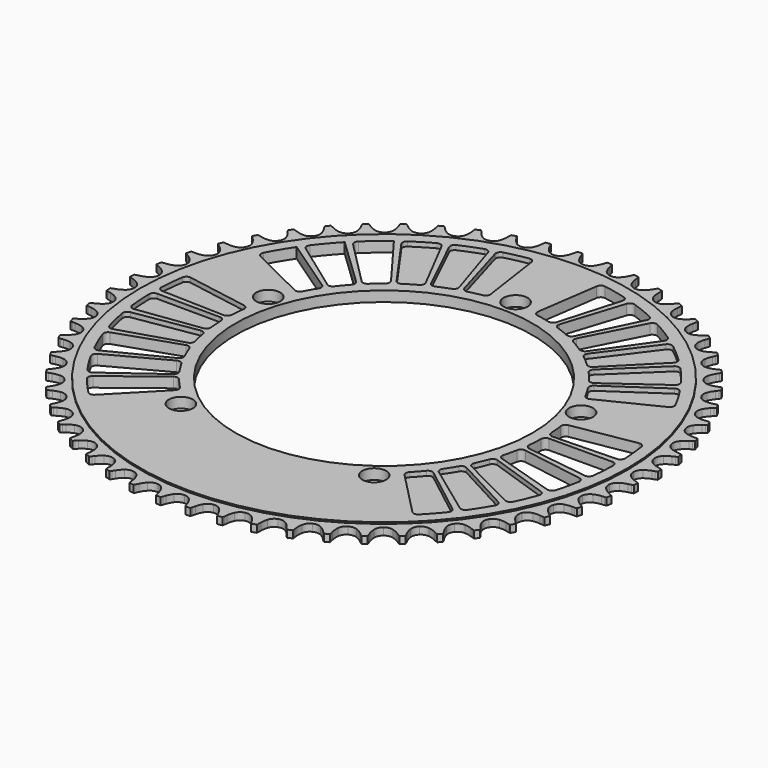
from build123d import *

# Parameters (mm, degrees)
F0_R     = 106.676444
F0_R_2   = 5.25
F0_R_3   = 64.999997
F1_DEPTH = 2.25
F2_DEPTH = 1.58
F4_DEPTH = 4.5
F5_DEPTH = 2
F6_R     = 2


with BuildPart() as f1:
    # F0 (on Top) → F1 (new body, symmetric)
    with BuildSketch(Plane.XY):
        Circle(F0_R)
        with Locations((-42.320538, -58.249224)):
            Circle(F0_R_2, mode=Mode.SUBTRACT)
        with Locations((42.320538, -58.249224)):
            Circle(F0_R_2, mode=Mode.SUBTRACT)
        with Locations((-68.476069, 22.249224)):
            Circle(F0_R_2, mode=Mode.SUBTRACT)
        Circle(F0_R_3, mode=Mode.SUBTRACT)
        with Locations((68.476069, 22.249224)):
            Circle(F0_R_2, mode=Mode.SUBTRACT)
        with Locations((0, 72)):
            Circle(F0_R_2, mode=Mode.SUBTRACT)
    extrude(amount=F1_DEPTH, both=True)

    # F0 (on Top) → F2 (join, symmetric)
    with BuildSketch(Plane.XY):
        with BuildLine():
            ThreePointArc((0, 109.17581), (-1.820626, 109.612304), (-3.24541, 110.826881))
            ThreePointArc((-3.24541, 110.826881), (-4.064402, 112.130041), (-4.681956, 113.539863))
            Line((-4.681956, 113.539863), (-5.068074, 114.656705))
            ThreePointArc((-5.068074, 114.656705), (-5.236599, 115.092025), (-5.436425, 115.513894))
            ThreePointArc((-5.436425, 115.513894), (-6.484085, 115.459824), (-7.53121, 115.396253))
            ThreePointArc((-7.53121, 115.396253), (-7.682546, 114.954664), (-7.801271, 114.503212))
            Line((-7.801271, 114.503212), (-8.059914, 113.350161))
            ThreePointArc((-8.059914, 113.350161), (-8.515736, 111.880059), (-9.183671, 110.493396))
            ThreePointArc((-9.183671, 110.493396), (-10.463506, 109.12693), (-12.223812, 108.489336))
            ThreePointArc((-12.223812, 108.489336), (-14.081863, 108.719239), (-15.633677, 109.766654))
            ThreePointArc((-15.633677, 109.766654), (-16.593427, 110.969922), (-17.364948, 112.301736))
            Line((-17.364948, 112.301736), (-17.873685, 113.368324))
            ThreePointArc((-17.873685, 113.368324), (-18.08989, 113.782037), (-18.335695, 114.17888))
            ThreePointArc((-18.335695, 114.17888), (-19.370713, 114.00785), (-20.404137, 113.827437))
            ThreePointArc((-20.404137, 113.827437), (-20.505079, 113.37168), (-20.57251, 112.909775))
            Line((-20.57251, 112.909775), (-20.700427, 111.735015))
            ThreePointArc((-20.700427, 111.735015), (-20.988783, 110.223121), (-21.497261, 108.770392))
            ThreePointArc((-21.497261, 108.770392), (-22.616053, 107.269222), (-24.293903, 106.438545))
            ThreePointArc((-24.293903, 106.438545), (-26.166011, 106.458967), (-27.825342, 107.326048))
            ThreePointArc((-27.825342, 107.326048), (-28.91378, 108.414292), (-29.829566, 109.651349))
            Line((-29.829566, 109.651349), (-30.454524, 110.65427))
            ThreePointArc((-30.454524, 110.65427), (-30.715691, 111.041175), (-31.004382, 111.408001))
            ThreePointArc((-31.004382, 111.408001), (-32.013743, 111.122161), (-33.020469, 110.827176))
            ThreePointArc((-33.020469, 110.827176), (-33.069748, 110.362983), (-33.085038, 109.896432))
            Line((-33.085038, 109.896432), (-33.080619, 108.714736))
            ThreePointArc((-33.080619, 108.714736), (-33.197884, 107.180063), (-33.54051, 105.679537))
            ThreePointArc((-33.54051, 105.679537), (-34.48419, 104.062541), (-36.058484, 103.049227))
            ThreePointArc((-36.058484, 103.049227), (-37.921108, 102.859912), (-39.667086, 103.535755))
            ThreePointArc((-39.667086, 103.535755), (-40.870526, 104.49529), (-41.91906, 105.622032))
            Line((-41.91906, 105.622032), (-42.65238, 106.548674))
            ThreePointArc((-42.65238, 106.548674), (-42.955224, 106.903905), (-43.283172, 107.236101))
            ThreePointArc((-43.283172, 107.236101), (-44.254182, 106.839046), (-45.22155, 106.433198))
            ThreePointArc((-45.22155, 106.433198), (-45.218546, 105.966406), (-45.181503, 105.501077))
            Line((-45.181503, 105.501077), (-45.044804, 104.327307))
            ThreePointArc((-45.044804, 104.327307), (-44.989502, 102.789154), (-45.161969, 101.2597))
            ThreePointArc((-45.161969, 101.2597), (-45.918669, 99.547213), (-47.369609, 98.364006))
            ThreePointArc((-47.369609, 98.364006), (-49.199324, 97.967333), (-51.009995, 98.443439))
            ThreePointArc((-51.009995, 98.443439), (-52.313301, 99.262198), (-53.481397, 100.264457))
            Line((-53.481397, 100.264457), (-54.313857, 101.103167))
            ThreePointArc((-54.313857, 101.103167), (-54.65457, 101.422256), (-55.01765, 101.715645))
            ThreePointArc((-55.01765, 101.715645), (-55.938099, 101.212368), (-56.853944, 100.700762))
            ThreePointArc((-56.853944, 100.700762), (-56.798694, 100.237241), (-56.709784, 99.778985))
            Line((-56.709784, 99.778985), (-56.442524, 98.627901))
            ThreePointArc((-56.442524, 98.627901), (-56.215351, 97.105611), (-56.215489, 95.566464))
            ThreePointArc((-56.215489, 95.566464), (-56.775693, 93.780022), (-58.085033, 92.441801))
            ThreePointArc((-58.085033, 92.441801), (-59.85883, 91.842759), (-61.711423, 92.11314))
            ThreePointArc((-61.711423, 92.11314), (-63.098206, 92.780827), (-64.371175, 93.645999))
            Line((-64.371175, 93.645999), (-65.292306, 94.386229))
            ThreePointArc((-65.292306, 94.386229), (-65.666604, 94.665164), (-66.060249, 94.916056))
            ThreePointArc((-66.060249, 94.916056), (-66.918561, 94.312886), (-67.771366, 93.701954))
            ThreePointArc((-67.771366, 93.701954), (-67.664566, 93.247534), (-67.524906, 92.802114))
            Line((-67.524906, 92.802114), (-67.130446, 91.688192))
            ThreePointArc((-67.130446, 91.688192), (-66.73426, 90.200909), (-66.562067, 88.671425))
            ThreePointArc((-66.562067, 88.671425), (-66.918731, 86.833492), (-68.070004, 85.357086))
            ThreePointArc((-68.070004, 85.357086), (-69.765576, 84.563208), (-71.636794, 84.624465))
            ThreePointArc((-71.636794, 84.624465), (-73.089614, 85.132683), (-74.451448, 85.849888))
            Line((-74.451448, 85.849888), (-75.449666, 86.482329))
            ThreePointArc((-75.449666, 86.482329), (-75.852841, 86.717603), (-76.272103, 86.922843))
            ThreePointArc((-76.272103, 86.922843), (-77.057484, 86.227365), (-77.836524, 85.524791))
            ThreePointArc((-77.836524, 85.524791), (-77.679517, 85.085186), (-77.490864, 84.658203))
            Line((-77.490864, 84.658203), (-76.974164, 83.59545))
            ThreePointArc((-76.974164, 83.59545), (-76.413946, 82.161878), (-76.071588, 80.66129))
            ThreePointArc((-76.071588, 80.66129), (-76.220226, 78.79498), (-77.198956, 77.198956))
            ThreePointArc((-77.198956, 77.198956), (-78.79498, 76.220226), (-80.66129, 76.071588))
            ThreePointArc((-80.66129, 76.071588), (-82.161878, 76.413946), (-83.59545, 76.974164))
            Line((-83.59545, 76.974164), (-84.658203, 77.490864))
            ThreePointArc((-84.658203, 77.490864), (-85.085186, 77.679517), (-85.524791, 77.836524))
            ThreePointArc((-85.524791, 77.836524), (-86.227365, 77.057484), (-86.922843, 76.272103))
            ThreePointArc((-86.922843, 76.272103), (-86.717603, 75.852841), (-86.482329, 75.449666))
            Line((-86.482329, 75.449666), (-85.849888, 74.451448))
            ThreePointArc((-85.849888, 74.451448), (-85.132683, 73.089614), (-84.624465, 71.636794))
            ThreePointArc((-84.624465, 71.636794), (-84.563208, 69.765576), (-85.357086, 68.070004))
            ThreePointArc((-85.357086, 68.070004), (-86.833492, 66.918731), (-88.671425, 66.562067))
            ThreePointArc((-88.671425, 66.562067), (-90.200909, 66.73426), (-91.688192, 67.130446))
            Line((-91.688192, 67.130446), (-92.802114, 67.524906))
            ThreePointArc((-92.802114, 67.524906), (-93.247534, 67.664566), (-93.701954, 67.771366))
            ThreePointArc((-93.701954, 67.771366), (-94.312886, 66.918561), (-94.916056, 66.060249))
            ThreePointArc((-94.916056, 66.060249), (-94.665164, 65.666604), (-94.386229, 65.292306))
            Line((-94.386229, 65.292306), (-93.645999, 64.371175))
            ThreePointArc((-93.645999, 64.371175), (-92.780827, 63.098206), (-92.11314, 61.711423))
            ThreePointArc((-92.11314, 61.711423), (-91.842759, 59.85883), (-92.441801, 58.085033))
            ThreePointArc((-92.441801, 58.085033), (-93.780022, 56.775693), (-95.566464, 56.215489))
            ThreePointArc((-95.566464, 56.215489), (-97.105611, 56.215351), (-98.627901, 56.442524))
            Line((-98.627901, 56.442524), (-99.778985, 56.709784))
            ThreePointArc((-99.778985, 56.709784), (-100.237241, 56.798694), (-100.700762, 56.853944))
            ThreePointArc((-100.700762, 56.853944), (-101.212368, 55.938099), (-101.715645, 55.01765))
            ThreePointArc((-101.715645, 55.01765), (-101.422256, 54.65457), (-101.103167, 54.313857))
            Line((-101.103167, 54.313857), (-100.264457, 53.481397))
            ThreePointArc((-100.264457, 53.481397), (-99.262198, 52.313301), (-98.443439, 51.009995))
            ThreePointArc((-98.443439, 51.009995), (-97.967333, 49.199324), (-98.364006, 47.369609))
            ThreePointArc((-98.364006, 47.369609), (-99.547213, 45.918669), (-101.2597, 45.161969))
            ThreePointArc((-101.2597, 45.161969), (-102.789154, 44.989502), (-104.327307, 45.044804))
            Line((-104.327307, 45.044804), (-105.501077, 45.181503))
            ThreePointArc((-105.501077, 45.181503), (-105.966406, 45.218546), (-106.433198, 45.22155))
            ThreePointArc((-106.433198, 45.22155), (-106.839046, 44.254182), (-107.236101, 43.283172))
            ThreePointArc((-107.236101, 43.283172), (-106.903905, 42.955224), (-106.548674, 42.65238))
            Line((-106.548674, 42.65238), (-105.622032, 41.91906))
            ThreePointArc((-105.622032, 41.91906), (-104.49529, 40.870526), (-103.535755, 39.667086))
            ThreePointArc((-103.535755, 39.667086), (-102.859912, 37.921108), (-103.049227, 36.058484))
            ThreePointArc((-103.049227, 36.058484), (-104.062541, 34.48419), (-105.679537, 33.54051))
            ThreePointArc((-105.679537, 33.54051), (-107.180063, 33.197884), (-108.714736, 33.080619))
            Line((-108.714736, 33.080619), (-109.896432, 33.085038))
            ThreePointArc((-109.896432, 33.085038), (-110.362983, 33.069748), (-110.827176, 33.020469))
            ThreePointArc((-110.827176, 33.020469), (-111.122161, 32.013743), (-111.408001, 31.004382))
            ThreePointArc((-111.408001, 31.004382), (-111.041175, 30.715691), (-110.65427, 30.454524))
            Line((-110.65427, 30.454524), (-109.651349, 29.829566))
            ThreePointArc((-109.651349, 29.829566), (-108.414292, 28.91378), (-107.326048, 27.825342))
            ThreePointArc((-107.326048, 27.825342), (-106.458967, 26.166011), (-106.438545, 24.293903))
            ThreePointArc((-106.438545, 24.293903), (-107.269222, 22.616053), (-108.770392, 21.497261))
            ThreePointArc((-108.770392, 21.497261), (-110.223121, 20.988783), (-111.735015, 20.700427))
            Line((-111.735015, 20.700427), (-112.909775, 20.57251))
            ThreePointArc((-112.909775, 20.57251), (-113.37168, 20.505079), (-113.827437, 20.404137))
            ThreePointArc((-113.827437, 20.404137), (-114.00785, 19.370713), (-114.17888, 18.335695))
            ThreePointArc((-114.17888, 18.335695), (-113.782037, 18.08989), (-113.368324, 17.873685))
            Line((-113.368324, 17.873685), (-112.301736, 17.364948))
            ThreePointArc((-112.301736, 17.364948), (-110.969922, 16.593427), (-109.766654, 15.633677))
            ThreePointArc((-109.766654, 15.633677), (-108.719239, 14.081863), (-108.489336, 12.223812))
            ThreePointArc((-108.489336, 12.223812), (-109.12693, 10.463506), (-110.493396, 9.183671))
            ThreePointArc((-110.493396, 9.183671), (-111.880059, 8.515736), (-113.350161, 8.059914))
            Line((-113.350161, 8.059914), (-114.503212, 7.801271))
            ThreePointArc((-114.503212, 7.801271), (-114.954664, 7.682546), (-115.396253, 7.53121))
            ThreePointArc((-115.396253, 7.53121), (-115.459824, 6.484085), (-115.513894, 5.436425))
            ThreePointArc((-115.513894, 5.436425), (-115.092025, 5.236599), (-114.656705, 5.068074))
            Line((-114.656705, 5.068074), (-113.539863, 4.681956))
            ThreePointArc((-113.539863, 4.681956), (-112.130041, 4.064402), (-110.826881, 3.24541))
            ThreePointArc((-110.826881, 3.24541), (-109.612304, 1.820626), (-109.17581, 0))
            ThreePointArc((-109.17581, 0), (-109.612304, -1.820626), (-110.826881, -3.24541))
            ThreePointArc((-110.826881, -3.24541), (-112.130041, -4.064402), (-113.539863, -4.681956))
            Line((-113.539863, -4.681956), (-114.656705, -5.068074))
            ThreePointArc((-114.656705, -5.068074), (-115.092025, -5.236599), (-115.513894, -5.436425))
            ThreePointArc((-115.513894, -5.436425), (-115.459824, -6.484085), (-115.396253, -7.53121))
            ThreePointArc((-115.396253, -7.53121), (-114.954664, -7.682546), (-114.503212, -7.801271))
            Line((-114.503212, -7.801271), (-113.350161, -8.059914))
            ThreePointArc((-113.350161, -8.059914), (-111.880059, -8.515736), (-110.493396, -9.183671))
            ThreePointArc((-110.493396, -9.183671), (-109.12693, -10.463506), (-108.489336, -12.223812))
            ThreePointArc((-108.489336, -12.223812), (-108.719239, -14.081863), (-109.766654, -15.633677))
            ThreePointArc((-109.766654, -15.633677), (-110.969922, -16.593427), (-112.301736, -17.364948))
            Line((-112.301736, -17.364948), (-113.368324, -17.873685))
            ThreePointArc((-113.368324, -17.873685), (-113.782037, -18.08989), (-114.17888, -18.335695))
            ThreePointArc((-114.17888, -18.335695), (-114.00785, -19.370713), (-113.827437, -20.404137))
            ThreePointArc((-113.827437, -20.404137), (-113.37168, -20.505079), (-112.909775, -20.57251))
            Line((-112.909775, -20.57251), (-111.735015, -20.700427))
            ThreePointArc((-111.735015, -20.700427), (-110.223121, -20.988783), (-108.770392, -21.497261))
            ThreePointArc((-108.770392, -21.497261), (-107.269222, -22.616053), (-106.438545, -24.293903))
            ThreePointArc((-106.438545, -24.293903), (-106.458967, -26.166011), (-107.326048, -27.825342))
            ThreePointArc((-107.326048, -27.825342), (-108.414292, -28.91378), (-109.651349, -29.829566))
            Line((-109.651349, -29.829566), (-110.65427, -30.454524))
            ThreePointArc((-110.65427, -30.454524), (-111.041175, -30.715691), (-111.408001, -31.004382))
            ThreePointArc((-111.408001, -31.004382), (-111.122161, -32.013743), (-110.827176, -33.020469))
            ThreePointArc((-110.827176, -33.020469), (-110.362983, -33.069748), (-109.896432, -33.085038))
            Line((-109.896432, -33.085038), (-108.714736, -33.080619))
            ThreePointArc((-108.714736, -33.080619), (-107.180063, -33.197884), (-105.679537, -33.54051))
            ThreePointArc((-105.679537, -33.54051), (-104.062541, -34.48419), (-103.049227, -36.058484))
            ThreePointArc((-103.049227, -36.058484), (-102.859912, -37.921108), (-103.535755, -39.667086))
            ThreePointArc((-103.535755, -39.667086), (-104.49529, -40.870526), (-105.622032, -41.91906))
            Line((-105.622032, -41.91906), (-106.548674, -42.65238))
            ThreePointArc((-106.548674, -42.65238), (-106.903905, -42.955224), (-107.236101, -43.283172))
            ThreePointArc((-107.236101, -43.283172), (-106.839046, -44.254182), (-106.433198, -45.22155))
            ThreePointArc((-106.433198, -45.22155), (-105.966406, -45.218546), (-105.501077, -45.181503))
            Line((-105.501077, -45.181503), (-104.327307, -45.044804))
            ThreePointArc((-104.327307, -45.044804), (-102.789154, -44.989502), (-101.2597, -45.161969))
            ThreePointArc((-101.2597, -45.161969), (-99.547213, -45.918669), (-98.364006, -47.369609))
            ThreePointArc((-98.364006, -47.369609), (-97.967333, -49.199324), (-98.443439, -51.009995))
            ThreePointArc((-98.443439, -51.009995), (-99.262198, -52.313301), (-100.264457, -53.481397))
            Line((-100.264457, -53.481397), (-101.103167, -54.313857))
            ThreePointArc((-101.103167, -54.313857), (-101.422256, -54.65457), (-101.715645, -55.01765))
            ThreePointArc((-101.715645, -55.01765), (-101.212368, -55.938099), (-100.700762, -56.853944))
            ThreePointArc((-100.700762, -56.853944), (-100.237241, -56.798694), (-99.778985, -56.709784))
            Line((-99.778985, -56.709784), (-98.627901, -56.442524))
            ThreePointArc((-98.627901, -56.442524), (-97.105611, -56.215351), (-95.566464, -56.215489))
            ThreePointArc((-95.566464, -56.215489), (-93.780022, -56.775693), (-92.441801, -58.085033))
            ThreePointArc((-92.441801, -58.085033), (-91.842759, -59.85883), (-92.11314, -61.711423))
            ThreePointArc((-92.11314, -61.711423), (-92.780827, -63.098206), (-93.645999, -64.371175))
            Line((-93.645999, -64.371175), (-94.386229, -65.292306))
            ThreePointArc((-94.386229, -65.292306), (-94.665164, -65.666604), (-94.916056, -66.060249))
            ThreePointArc((-94.916056, -66.060249), (-94.312886, -66.918561), (-93.701954, -67.771366))
            ThreePointArc((-93.701954, -67.771366), (-93.247534, -67.664566), (-92.802114, -67.524906))
            Line((-92.802114, -67.524906), (-91.688192, -67.130446))
            ThreePointArc((-91.688192, -67.130446), (-90.200909, -66.73426), (-88.671425, -66.562067))
            ThreePointArc((-88.671425, -66.562067), (-86.833492, -66.918731), (-85.357086, -68.070004))
            ThreePointArc((-85.357086, -68.070004), (-84.563208, -69.765576), (-84.624465, -71.636794))
            ThreePointArc((-84.624465, -71.636794), (-85.132683, -73.089614), (-85.849888, -74.451448))
            Line((-85.849888, -74.451448), (-86.482329, -75.449666))
            ThreePointArc((-86.482329, -75.449666), (-86.717603, -75.852841), (-86.922843, -76.272103))
            ThreePointArc((-86.922843, -76.272103), (-86.227365, -77.057484), (-85.524791, -77.836524))
            ThreePointArc((-85.524791, -77.836524), (-85.085186, -77.679517), (-84.658203, -77.490864))
            Line((-84.658203, -77.490864), (-83.59545, -76.974164))
            ThreePointArc((-83.59545, -76.974164), (-82.161878, -76.413946), (-80.66129, -76.071588))
            ThreePointArc((-80.66129, -76.071588), (-78.79498, -76.220226), (-77.198956, -77.198956))
            ThreePointArc((-77.198956, -77.198956), (-76.220226, -78.79498), (-76.071588, -80.66129))
            ThreePointArc((-76.071588, -80.66129), (-76.413946, -82.161878), (-76.974164, -83.59545))
            Line((-76.974164, -83.59545), (-77.490864, -84.658203))
            ThreePointArc((-77.490864, -84.658203), (-77.679517, -85.085186), (-77.836524, -85.524791))
            ThreePointArc((-77.836524, -85.524791), (-77.057484, -86.227365), (-76.272103, -86.922843))
            ThreePointArc((-76.272103, -86.922843), (-75.852841, -86.717603), (-75.449666, -86.482329))
            Line((-75.449666, -86.482329), (-74.451448, -85.849888))
            ThreePointArc((-74.451448, -85.849888), (-73.089614, -85.132683), (-71.636794, -84.624465))
            ThreePointArc((-71.636794, -84.624465), (-69.765576, -84.563208), (-68.070004, -85.357086))
            ThreePointArc((-68.070004, -85.357086), (-66.918731, -86.833492), (-66.562067, -88.671425))
            ThreePointArc((-66.562067, -88.671425), (-66.73426, -90.200909), (-67.130446, -91.688192))
            Line((-67.130446, -91.688192), (-67.524906, -92.802114))
            ThreePointArc((-67.524906, -92.802114), (-67.664566, -93.247534), (-67.771366, -93.701954))
            ThreePointArc((-67.771366, -93.701954), (-66.918561, -94.312886), (-66.060249, -94.916056))
            ThreePointArc((-66.060249, -94.916056), (-65.666604, -94.665164), (-65.292306, -94.386229))
            Line((-65.292306, -94.386229), (-64.371175, -93.645999))
            ThreePointArc((-64.371175, -93.645999), (-63.098206, -92.780827), (-61.711423, -92.11314))
            ThreePointArc((-61.711423, -92.11314), (-59.85883, -91.842759), (-58.085033, -92.441801))
            ThreePointArc((-58.085033, -92.441801), (-56.775693, -93.780022), (-56.215489, -95.566464))
            ThreePointArc((-56.215489, -95.566464), (-56.215351, -97.105611), (-56.442524, -98.627901))
            Line((-56.442524, -98.627901), (-56.709784, -99.778985))
            ThreePointArc((-56.709784, -99.778985), (-56.798694, -100.237241), (-56.853944, -100.700762))
            ThreePointArc((-56.853944, -100.700762), (-55.938099, -101.212368), (-55.01765, -101.715645))
            ThreePointArc((-55.01765, -101.715645), (-54.65457, -101.422256), (-54.313857, -101.103167))
            Line((-54.313857, -101.103167), (-53.481397, -100.264457))
            ThreePointArc((-53.481397, -100.264457), (-52.313301, -99.262198), (-51.009995, -98.443439))
            ThreePointArc((-51.009995, -98.443439), (-49.199324, -97.967333), (-47.369609, -98.364006))
            ThreePointArc((-47.369609, -98.364006), (-45.918669, -99.547213), (-45.161969, -101.2597))
            ThreePointArc((-45.161969, -101.2597), (-44.989502, -102.789154), (-45.044804, -104.327307))
            Line((-45.044804, -104.327307), (-45.181503, -105.501077))
            ThreePointArc((-45.181503, -105.501077), (-45.218546, -105.966406), (-45.22155, -106.433198))
            ThreePointArc((-45.22155, -106.433198), (-44.254182, -106.839046), (-43.283172, -107.236101))
            ThreePointArc((-43.283172, -107.236101), (-42.955224, -106.903905), (-42.65238, -106.548674))
            Line((-42.65238, -106.548674), (-41.91906, -105.622032))
            ThreePointArc((-41.91906, -105.622032), (-40.870526, -104.49529), (-39.667086, -103.535755))
            ThreePointArc((-39.667086, -103.535755), (-37.921108, -102.859912), (-36.058484, -103.049227))
            ThreePointArc((-36.058484, -103.049227), (-34.48419, -104.062541), (-33.54051, -105.679537))
            ThreePointArc((-33.54051, -105.679537), (-33.197884, -107.180063), (-33.080619, -108.714736))
            Line((-33.080619, -108.714736), (-33.085038, -109.896432))
            ThreePointArc((-33.085038, -109.896432), (-33.069748, -110.362983), (-33.020469, -110.827176))
            ThreePointArc((-33.020469, -110.827176), (-32.013743, -111.122161), (-31.004382, -111.408001))
            ThreePointArc((-31.004382, -111.408001), (-30.715691, -111.041175), (-30.454524, -110.65427))
            Line((-30.454524, -110.65427), (-29.829566, -109.651349))
            ThreePointArc((-29.829566, -109.651349), (-28.91378, -108.414292), (-27.825342, -107.326048))
            ThreePointArc((-27.825342, -107.326048), (-26.166011, -106.458967), (-24.293903, -106.438545))
            ThreePointArc((-24.293903, -106.438545), (-22.616053, -107.269222), (-21.497261, -108.770392))
            ThreePointArc((-21.497261, -108.770392), (-20.988783, -110.223121), (-20.700427, -111.735015))
            Line((-20.700427, -111.735015), (-20.57251, -112.909775))
            ThreePointArc((-20.57251, -112.909775), (-20.505079, -113.37168), (-20.404137, -113.827437))
            ThreePointArc((-20.404137, -113.827437), (-19.370713, -114.00785), (-18.335695, -114.17888))
            ThreePointArc((-18.335695, -114.17888), (-18.08989, -113.782037), (-17.873685, -113.368324))
            Line((-17.873685, -113.368324), (-17.364948, -112.301736))
            ThreePointArc((-17.364948, -112.301736), (-16.593427, -110.969922), (-15.633677, -109.766654))
            ThreePointArc((-15.633677, -109.766654), (-14.081863, -108.719239), (-12.223812, -108.489336))
            ThreePointArc((-12.223812, -108.489336), (-10.463506, -109.12693), (-9.183671, -110.493396))
            ThreePointArc((-9.183671, -110.493396), (-8.515736, -111.880059), (-8.059914, -113.350161))
            Line((-8.059914, -113.350161), (-7.801271, -114.503212))
            ThreePointArc((-7.801271, -114.503212), (-7.682546, -114.954664), (-7.53121, -115.396253))
            ThreePointArc((-7.53121, -115.396253), (-6.484085, -115.459824), (-5.436425, -115.513894))
            ThreePointArc((-5.436425, -115.513894), (-5.236599, -115.092025), (-5.068074, -114.656705))
            Line((-5.068074, -114.656705), (-4.681956, -113.539863))
            ThreePointArc((-4.681956, -113.539863), (-4.064402, -112.130041), (-3.24541, -110.826881))
            ThreePointArc((-3.24541, -110.826881), (-1.820626, -109.612304), (0, -109.17581))
            ThreePointArc((0, -109.17581), (1.820626, -109.612304), (3.24541, -110.826881))
            ThreePointArc((3.24541, -110.826881), (4.064402, -112.130041), (4.681956, -113.539863))
            Line((4.681956, -113.539863), (5.068074, -114.656705))
            ThreePointArc((5.068074, -114.656705), (5.236599, -115.092025), (5.436425, -115.513894))
            ThreePointArc((5.436425, -115.513894), (6.484085, -115.459824), (7.53121, -115.396253))
            ThreePointArc((7.53121, -115.396253), (7.682546, -114.954664), (7.801271, -114.503212))
            Line((7.801271, -114.503212), (8.059914, -113.350161))
            ThreePointArc((8.059914, -113.350161), (8.515736, -111.880059), (9.183671, -110.493396))
            ThreePointArc((9.183671, -110.493396), (10.463506, -109.12693), (12.223812, -108.489336))
            ThreePointArc((12.223812, -108.489336), (14.081863, -108.719239), (15.633677, -109.766654))
            ThreePointArc((15.633677, -109.766654), (16.593427, -110.969922), (17.364948, -112.301736))
            Line((17.364948, -112.301736), (17.873685, -113.368324))
            ThreePointArc((17.873685, -113.368324), (18.08989, -113.782037), (18.335695, -114.17888))
            ThreePointArc((18.335695, -114.17888), (19.370713, -114.00785), (20.404137, -113.827437))
            ThreePointArc((20.404137, -113.827437), (20.505079, -113.37168), (20.57251, -112.909775))
            Line((20.57251, -112.909775), (20.700427, -111.735015))
            ThreePointArc((20.700427, -111.735015), (20.988783, -110.223121), (21.497261, -108.770392))
            ThreePointArc((21.497261, -108.770392), (22.616053, -107.269222), (24.293903, -106.438545))
            ThreePointArc((24.293903, -106.438545), (26.166011, -106.458967), (27.825342, -107.326048))
            ThreePointArc((27.825342, -107.326048), (28.91378, -108.414292), (29.829566, -109.651349))
            Line((29.829566, -109.651349), (30.454524, -110.65427))
            ThreePointArc((30.454524, -110.65427), (30.715691, -111.041175), (31.004382, -111.408001))
            ThreePointArc((31.004382, -111.408001), (32.013743, -111.122161), (33.020469, -110.827176))
            ThreePointArc((33.020469, -110.827176), (33.069748, -110.362983), (33.085038, -109.896432))
            Line((33.085038, -109.896432), (33.080619, -108.714736))
            ThreePointArc((33.080619, -108.714736), (33.197884, -107.180063), (33.54051, -105.679537))
            ThreePointArc((33.54051, -105.679537), (34.48419, -104.062541), (36.058484, -103.049227))
            ThreePointArc((36.058484, -103.049227), (37.921108, -102.859912), (39.667086, -103.535755))
            ThreePointArc((39.667086, -103.535755), (40.870526, -104.49529), (41.91906, -105.622032))
            Line((41.91906, -105.622032), (42.65238, -106.548674))
            ThreePointArc((42.65238, -106.548674), (42.955224, -106.903905), (43.283172, -107.236101))
            ThreePointArc((43.283172, -107.236101), (44.254182, -106.839046), (45.22155, -106.433198))
            ThreePointArc((45.22155, -106.433198), (45.218546, -105.966406), (45.181503, -105.501077))
            Line((45.181503, -105.501077), (45.044804, -104.327307))
            ThreePointArc((45.044804, -104.327307), (44.989502, -102.789154), (45.161969, -101.2597))
            ThreePointArc((45.161969, -101.2597), (45.918669, -99.547213), (47.369609, -98.364006))
            ThreePointArc((47.369609, -98.364006), (49.199324, -97.967333), (51.009995, -98.443439))
            ThreePointArc((51.009995, -98.443439), (52.313301, -99.262198), (53.481397, -100.264457))
            Line((53.481397, -100.264457), (54.313857, -101.103167))
            ThreePointArc((54.313857, -101.103167), (54.65457, -101.422256), (55.01765, -101.715645))
            ThreePointArc((55.01765, -101.715645), (55.938099, -101.212368), (56.853944, -100.700762))
            ThreePointArc((56.853944, -100.700762), (56.798694, -100.237241), (56.709784, -99.778985))
            Line((56.709784, -99.778985), (56.442524, -98.627901))
            ThreePointArc((56.442524, -98.627901), (56.215351, -97.105611), (56.215489, -95.566464))
            ThreePointArc((56.215489, -95.566464), (56.775693, -93.780022), (58.085033, -92.441801))
            ThreePointArc((58.085033, -92.441801), (59.85883, -91.842759), (61.711423, -92.11314))
            ThreePointArc((61.711423, -92.11314), (63.098206, -92.780827), (64.371175, -93.645999))
            Line((64.371175, -93.645999), (65.292306, -94.386229))
            ThreePointArc((65.292306, -94.386229), (65.666604, -94.665164), (66.060249, -94.916056))
            ThreePointArc((66.060249, -94.916056), (66.918561, -94.312886), (67.771366, -93.701954))
            ThreePointArc((67.771366, -93.701954), (67.664566, -93.247534), (67.524906, -92.802114))
            Line((67.524906, -92.802114), (67.130446, -91.688192))
            ThreePointArc((67.130446, -91.688192), (66.73426, -90.200909), (66.562067, -88.671425))
            ThreePointArc((66.562067, -88.671425), (66.918731, -86.833492), (68.070004, -85.357086))
            ThreePointArc((68.070004, -85.357086), (69.765576, -84.563208), (71.636794, -84.624465))
            ThreePointArc((71.636794, -84.624465), (73.089614, -85.132683), (74.451448, -85.849888))
            Line((74.451448, -85.849888), (75.449666, -86.482329))
            ThreePointArc((75.449666, -86.482329), (75.852841, -86.717603), (76.272103, -86.922843))
            ThreePointArc((76.272103, -86.922843), (77.057484, -86.227365), (77.836524, -85.524791))
            ThreePointArc((77.836524, -85.524791), (77.679517, -85.085186), (77.490864, -84.658203))
            Line((77.490864, -84.658203), (76.974164, -83.59545))
            ThreePointArc((76.974164, -83.59545), (76.413946, -82.161878), (76.071588, -80.66129))
            ThreePointArc((76.071588, -80.66129), (76.220226, -78.79498), (77.198956, -77.198956))
            ThreePointArc((77.198956, -77.198956), (78.79498, -76.220226), (80.66129, -76.071588))
            ThreePointArc((80.66129, -76.071588), (82.161878, -76.413946), (83.59545, -76.974164))
            Line((83.59545, -76.974164), (84.658203, -77.490864))
            ThreePointArc((84.658203, -77.490864), (85.085186, -77.679517), (85.524791, -77.836524))
            ThreePointArc((85.524791, -77.836524), (86.227365, -77.057484), (86.922843, -76.272103))
            ThreePointArc((86.922843, -76.272103), (86.717603, -75.852841), (86.482329, -75.449666))
            Line((86.482329, -75.449666), (85.849888, -74.451448))
            ThreePointArc((85.849888, -74.451448), (85.132683, -73.089614), (84.624465, -71.636794))
            ThreePointArc((84.624465, -71.636794), (84.563208, -69.765576), (85.357086, -68.070004))
            ThreePointArc((85.357086, -68.070004), (86.833492, -66.918731), (88.671425, -66.562067))
            ThreePointArc((88.671425, -66.562067), (90.200909, -66.73426), (91.688192, -67.130446))
            Line((91.688192, -67.130446), (92.802114, -67.524906))
            ThreePointArc((92.802114, -67.524906), (93.247534, -67.664566), (93.701954, -67.771366))
            ThreePointArc((93.701954, -67.771366), (94.312886, -66.918561), (94.916056, -66.060249))
            ThreePointArc((94.916056, -66.060249), (94.665164, -65.666604), (94.386229, -65.292306))
            Line((94.386229, -65.292306), (93.645999, -64.371175))
            ThreePointArc((93.645999, -64.371175), (92.780827, -63.098206), (92.11314, -61.711423))
            ThreePointArc((92.11314, -61.711423), (91.842759, -59.85883), (92.441801, -58.085033))
            ThreePointArc((92.441801, -58.085033), (93.780022, -56.775693), (95.566464, -56.215489))
            ThreePointArc((95.566464, -56.215489), (97.105611, -56.215351), (98.627901, -56.442524))
            Line((98.627901, -56.442524), (99.778985, -56.709784))
            ThreePointArc((99.778985, -56.709784), (100.237241, -56.798694), (100.700762, -56.853944))
            ThreePointArc((100.700762, -56.853944), (101.212368, -55.938099), (101.715645, -55.01765))
            ThreePointArc((101.715645, -55.01765), (101.422256, -54.65457), (101.103167, -54.313857))
            Line((101.103167, -54.313857), (100.264457, -53.481397))
            ThreePointArc((100.264457, -53.481397), (99.262198, -52.313301), (98.443439, -51.009995))
            ThreePointArc((98.443439, -51.009995), (97.967333, -49.199324), (98.364006, -47.369609))
            ThreePointArc((98.364006, -47.369609), (99.547213, -45.918669), (101.2597, -45.161969))
            ThreePointArc((101.2597, -45.161969), (102.789154, -44.989502), (104.327307, -45.044804))
            Line((104.327307, -45.044804), (105.501077, -45.181503))
            ThreePointArc((105.501077, -45.181503), (105.966406, -45.218546), (106.433198, -45.22155))
            ThreePointArc((106.433198, -45.22155), (106.839046, -44.254182), (107.236101, -43.283172))
            ThreePointArc((107.236101, -43.283172), (106.903905, -42.955224), (106.548674, -42.65238))
            Line((106.548674, -42.65238), (105.622032, -41.91906))
            ThreePointArc((105.622032, -41.91906), (104.49529, -40.870526), (103.535755, -39.667086))
            ThreePointArc((103.535755, -39.667086), (102.859912, -37.921108), (103.049227, -36.058484))
            ThreePointArc((103.049227, -36.058484), (104.062541, -34.48419), (105.679537, -33.54051))
            ThreePointArc((105.679537, -33.54051), (107.180063, -33.197884), (108.714736, -33.080619))
            Line((108.714736, -33.080619), (109.896432, -33.085038))
            ThreePointArc((109.896432, -33.085038), (110.362983, -33.069748), (110.827176, -33.020469))
            ThreePointArc((110.827176, -33.020469), (111.122161, -32.013743), (111.408001, -31.004382))
            ThreePointArc((111.408001, -31.004382), (111.041175, -30.715691), (110.65427, -30.454524))
            Line((110.65427, -30.454524), (109.651349, -29.829566))
            ThreePointArc((109.651349, -29.829566), (108.414292, -28.91378), (107.326048, -27.825342))
            ThreePointArc((107.326048, -27.825342), (106.458967, -26.166011), (106.438545, -24.293903))
            ThreePointArc((106.438545, -24.293903), (107.269222, -22.616053), (108.770392, -21.497261))
            ThreePointArc((108.770392, -21.497261), (110.223121, -20.988783), (111.735015, -20.700427))
            Line((111.735015, -20.700427), (112.909775, -20.57251))
            ThreePointArc((112.909775, -20.57251), (113.37168, -20.505079), (113.827437, -20.404137))
            ThreePointArc((113.827437, -20.404137), (114.00785, -19.370713), (114.17888, -18.335695))
            ThreePointArc((114.17888, -18.335695), (113.782037, -18.08989), (113.368324, -17.873685))
            Line((113.368324, -17.873685), (112.301736, -17.364948))
            ThreePointArc((112.301736, -17.364948), (110.969922, -16.593427), (109.766654, -15.633677))
            ThreePointArc((109.766654, -15.633677), (108.719239, -14.081863), (108.489336, -12.223812))
            ThreePointArc((108.489336, -12.223812), (109.12693, -10.463506), (110.493396, -9.183671))
            ThreePointArc((110.493396, -9.183671), (111.880059, -8.515736), (113.350161, -8.059914))
            Line((113.350161, -8.059914), (114.503212, -7.801271))
            ThreePointArc((114.503212, -7.801271), (114.954664, -7.682546), (115.396253, -7.53121))
            ThreePointArc((115.396253, -7.53121), (115.459824, -6.484085), (115.513894, -5.436425))
            ThreePointArc((115.513894, -5.436425), (115.092025, -5.236599), (114.656705, -5.068074))
            Line((114.656705, -5.068074), (113.539863, -4.681956))
            ThreePointArc((113.539863, -4.681956), (112.130041, -4.064402), (110.826881, -3.24541))
            ThreePointArc((110.826881, -3.24541), (109.612304, -1.820626), (109.17581, 0))
            ThreePointArc((109.17581, 0), (109.612304, 1.820626), (110.826881, 3.24541))
            ThreePointArc((110.826881, 3.24541), (112.130041, 4.064402), (113.539863, 4.681956))
            Line((113.539863, 4.681956), (114.656705, 5.068074))
            ThreePointArc((114.656705, 5.068074), (115.092025, 5.236599), (115.513894, 5.436425))
            ThreePointArc((115.513894, 5.436425), (115.459824, 6.484085), (115.396253, 7.53121))
            ThreePointArc((115.396253, 7.53121), (114.954664, 7.682546), (114.503212, 7.801271))
            Line((114.503212, 7.801271), (113.350161, 8.059914))
            ThreePointArc((113.350161, 8.059914), (111.880059, 8.515736), (110.493396, 9.183671))
            ThreePointArc((110.493396, 9.183671), (109.12693, 10.463506), (108.489336, 12.223812))
            ThreePointArc((108.489336, 12.223812), (108.719239, 14.081863), (109.766654, 15.633677))
            ThreePointArc((109.766654, 15.633677), (110.969922, 16.593427), (112.301736, 17.364948))
            Line((112.301736, 17.364948), (113.368324, 17.873685))
            ThreePointArc((113.368324, 17.873685), (113.782037, 18.08989), (114.17888, 18.335695))
            ThreePointArc((114.17888, 18.335695), (114.00785, 19.370713), (113.827437, 20.404137))
            ThreePointArc((113.827437, 20.404137), (113.37168, 20.505079), (112.909775, 20.57251))
            Line((112.909775, 20.57251), (111.735015, 20.700427))
            ThreePointArc((111.735015, 20.700427), (110.223121, 20.988783), (108.770392, 21.497261))
            ThreePointArc((108.770392, 21.497261), (107.269222, 22.616053), (106.438545, 24.293903))
            ThreePointArc((106.438545, 24.293903), (106.458967, 26.166011), (107.326048, 27.825342))
            ThreePointArc((107.326048, 27.825342), (108.414292, 28.91378), (109.651349, 29.829566))
            Line((109.651349, 29.829566), (110.65427, 30.454524))
            ThreePointArc((110.65427, 30.454524), (111.041175, 30.715691), (111.408001, 31.004382))
            ThreePointArc((111.408001, 31.004382), (111.122161, 32.013743), (110.827176, 33.020469))
            ThreePointArc((110.827176, 33.020469), (110.362983, 33.069748), (109.896432, 33.085038))
            Line((109.896432, 33.085038), (108.714736, 33.080619))
            ThreePointArc((108.714736, 33.080619), (107.180063, 33.197884), (105.679537, 33.54051))
            ThreePointArc((105.679537, 33.54051), (104.062541, 34.48419), (103.049227, 36.058484))
            ThreePointArc((103.049227, 36.058484), (102.859912, 37.921108), (103.535755, 39.667086))
            ThreePointArc((103.535755, 39.667086), (104.49529, 40.870526), (105.622032, 41.91906))
            Line((105.622032, 41.91906), (106.548674, 42.65238))
            ThreePointArc((106.548674, 42.65238), (106.903905, 42.955224), (107.236101, 43.283172))
            ThreePointArc((107.236101, 43.283172), (106.839046, 44.254182), (106.433198, 45.22155))
            ThreePointArc((106.433198, 45.22155), (105.966406, 45.218546), (105.501077, 45.181503))
            Line((105.501077, 45.181503), (104.327307, 45.044804))
            ThreePointArc((104.327307, 45.044804), (102.789154, 44.989502), (101.2597, 45.161969))
            ThreePointArc((101.2597, 45.161969), (99.547213, 45.918669), (98.364006, 47.369609))
            ThreePointArc((98.364006, 47.369609), (97.967333, 49.199324), (98.443439, 51.009995))
            ThreePointArc((98.443439, 51.009995), (99.262198, 52.313301), (100.264457, 53.481397))
            Line((100.264457, 53.481397), (101.103167, 54.313857))
            ThreePointArc((101.103167, 54.313857), (101.422256, 54.65457), (101.715645, 55.01765))
            ThreePointArc((101.715645, 55.01765), (101.212368, 55.938099), (100.700762, 56.853944))
            ThreePointArc((100.700762, 56.853944), (100.237241, 56.798694), (99.778985, 56.709784))
            Line((99.778985, 56.709784), (98.627901, 56.442524))
            ThreePointArc((98.627901, 56.442524), (97.105611, 56.215351), (95.566464, 56.215489))
            ThreePointArc((95.566464, 56.215489), (93.780022, 56.775693), (92.441801, 58.085033))
            ThreePointArc((92.441801, 58.085033), (91.842759, 59.85883), (92.11314, 61.711423))
            ThreePointArc((92.11314, 61.711423), (92.780827, 63.098206), (93.645999, 64.371175))
            Line((93.645999, 64.371175), (94.386229, 65.292306))
            ThreePointArc((94.386229, 65.292306), (94.665164, 65.666604), (94.916056, 66.060249))
            ThreePointArc((94.916056, 66.060249), (94.312886, 66.918561), (93.701954, 67.771366))
            ThreePointArc((93.701954, 67.771366), (93.247534, 67.664566), (92.802114, 67.524906))
            Line((92.802114, 67.524906), (91.688192, 67.130446))
            ThreePointArc((91.688192, 67.130446), (90.200909, 66.73426), (88.671425, 66.562067))
            ThreePointArc((88.671425, 66.562067), (86.833492, 66.918731), (85.357086, 68.070004))
            ThreePointArc((85.357086, 68.070004), (84.563208, 69.765576), (84.624465, 71.636794))
            ThreePointArc((84.624465, 71.636794), (85.132683, 73.089614), (85.849888, 74.451448))
            Line((85.849888, 74.451448), (86.482329, 75.449666))
            ThreePointArc((86.482329, 75.449666), (86.717603, 75.852841), (86.922843, 76.272103))
            ThreePointArc((86.922843, 76.272103), (86.227365, 77.057484), (85.524791, 77.836524))
            ThreePointArc((85.524791, 77.836524), (85.085186, 77.679517), (84.658203, 77.490864))
            Line((84.658203, 77.490864), (83.59545, 76.974164))
            ThreePointArc((83.59545, 76.974164), (82.161878, 76.413946), (80.66129, 76.071588))
            ThreePointArc((80.66129, 76.071588), (78.79498, 76.220226), (77.198956, 77.198956))
            ThreePointArc((77.198956, 77.198956), (76.220226, 78.79498), (76.071588, 80.66129))
            ThreePointArc((76.071588, 80.66129), (76.413946, 82.161878), (76.974164, 83.59545))
            Line((76.974164, 83.59545), (77.490864, 84.658203))
            ThreePointArc((77.490864, 84.658203), (77.679517, 85.085186), (77.836524, 85.524791))
            ThreePointArc((77.836524, 85.524791), (77.057484, 86.227365), (76.272103, 86.922843))
            ThreePointArc((76.272103, 86.922843), (75.852841, 86.717603), (75.449666, 86.482329))
            Line((75.449666, 86.482329), (74.451448, 85.849888))
            ThreePointArc((74.451448, 85.849888), (73.089614, 85.132683), (71.636794, 84.624465))
            ThreePointArc((71.636794, 84.624465), (69.765576, 84.563208), (68.070004, 85.357086))
            ThreePointArc((68.070004, 85.357086), (66.918731, 86.833492), (66.562067, 88.671425))
            ThreePointArc((66.562067, 88.671425), (66.73426, 90.200909), (67.130446, 91.688192))
            Line((67.130446, 91.688192), (67.524906, 92.802114))
            ThreePointArc((67.524906, 92.802114), (67.664566, 93.247534), (67.771366, 93.701954))
            ThreePointArc((67.771366, 93.701954), (66.918561, 94.312886), (66.060249, 94.916056))
            ThreePointArc((66.060249, 94.916056), (65.666604, 94.665164), (65.292306, 94.386229))
            Line((65.292306, 94.386229), (64.371175, 93.645999))
            ThreePointArc((64.371175, 93.645999), (63.098206, 92.780827), (61.711423, 92.11314))
            ThreePointArc((61.711423, 92.11314), (59.85883, 91.842759), (58.085033, 92.441801))
            ThreePointArc((58.085033, 92.441801), (56.775693, 93.780022), (56.215489, 95.566464))
            ThreePointArc((56.215489, 95.566464), (56.215351, 97.105611), (56.442524, 98.627901))
            Line((56.442524, 98.627901), (56.709784, 99.778985))
            ThreePointArc((56.709784, 99.778985), (56.798694, 100.237241), (56.853944, 100.700762))
            ThreePointArc((56.853944, 100.700762), (55.938099, 101.212368), (55.01765, 101.715645))
            ThreePointArc((55.01765, 101.715645), (54.65457, 101.422256), (54.313857, 101.103167))
            Line((54.313857, 101.103167), (53.481397, 100.264457))
            ThreePointArc((53.481397, 100.264457), (52.313301, 99.262198), (51.009995, 98.443439))
            ThreePointArc((51.009995, 98.443439), (49.199324, 97.967333), (47.369609, 98.364006))
            ThreePointArc((47.369609, 98.364006), (45.918669, 99.547213), (45.161969, 101.2597))
            ThreePointArc((45.161969, 101.2597), (44.989502, 102.789154), (45.044804, 104.327307))
            Line((45.044804, 104.327307), (45.181503, 105.501077))
            ThreePointArc((45.181503, 105.501077), (45.218546, 105.966406), (45.22155, 106.433198))
            ThreePointArc((45.22155, 106.433198), (44.254182, 106.839046), (43.283172, 107.236101))
            ThreePointArc((43.283172, 107.236101), (42.955224, 106.903905), (42.65238, 106.548674))
            Line((42.65238, 106.548674), (41.91906, 105.622032))
            ThreePointArc((41.91906, 105.622032), (40.870526, 104.49529), (39.667086, 103.535755))
            ThreePointArc((39.667086, 103.535755), (37.921108, 102.859912), (36.058484, 103.049227))
            ThreePointArc((36.058484, 103.049227), (34.48419, 104.062541), (33.54051, 105.679537))
            ThreePointArc((33.54051, 105.679537), (33.197884, 107.180063), (33.080619, 108.714736))
            Line((33.080619, 108.714736), (33.085038, 109.896432))
            ThreePointArc((33.085038, 109.896432), (33.069748, 110.362983), (33.020469, 110.827176))
            ThreePointArc((33.020469, 110.827176), (32.013743, 111.122161), (31.004382, 111.408001))
            ThreePointArc((31.004382, 111.408001), (30.715691, 111.041175), (30.454524, 110.65427))
            Line((30.454524, 110.65427), (29.829566, 109.651349))
            ThreePointArc((29.829566, 109.651349), (28.91378, 108.414292), (27.825342, 107.326048))
            ThreePointArc((27.825342, 107.326048), (26.166011, 106.458967), (24.293903, 106.438545))
            ThreePointArc((24.293903, 106.438545), (22.616053, 107.269222), (21.497261, 108.770392))
            ThreePointArc((21.497261, 108.770392), (20.988783, 110.223121), (20.700427, 111.735015))
            Line((20.700427, 111.735015), (20.57251, 112.909775))
            ThreePointArc((20.57251, 112.909775), (20.505079, 113.37168), (20.404137, 113.827437))
            ThreePointArc((20.404137, 113.827437), (19.370713, 114.00785), (18.335695, 114.17888))
            ThreePointArc((18.335695, 114.17888), (18.08989, 113.782037), (17.873685, 113.368324))
            Line((17.873685, 113.368324), (17.364948, 112.301736))
            ThreePointArc((17.364948, 112.301736), (16.593427, 110.969922), (15.633677, 109.766654))
            ThreePointArc((15.633677, 109.766654), (14.081863, 108.719239), (12.223812, 108.489336))
            ThreePointArc((12.223812, 108.489336), (10.463506, 109.12693), (9.183671, 110.493396))
            ThreePointArc((9.183671, 110.493396), (8.515736, 111.880059), (8.059914, 113.350161))
            Line((8.059914, 113.350161), (7.801271, 114.503212))
            ThreePointArc((7.801271, 114.503212), (7.682546, 114.954664), (7.53121, 115.396253))
            ThreePointArc((7.53121, 115.396253), (6.484085, 115.459824), (5.436425, 115.513894))
            ThreePointArc((5.436425, 115.513894), (5.236599, 115.092025), (5.068074, 114.656705))
            Line((5.068074, 114.656705), (4.681956, 113.539863))
            ThreePointArc((4.681956, 113.539863), (4.064402, 112.130041), (3.24541, 110.826881))
            ThreePointArc((3.24541, 110.826881), (1.820626, 109.612304), (0, 109.17581))
        make_face()
        Circle(F0_R, mode=Mode.SUBTRACT)
    extrude(amount=F2_DEPTH, both=True)

    # F3 (on face) → F4 (cut)
    with BuildSketch(Plane.XY.offset(2.25)):
        with BuildLine():
            Line((100.128636, 17.207371), (69.067521, 11.869436))
            ThreePointArc((69.067521, 11.869436), (69.727246, 7.022616), (70.047267, 2.141583))
            Line((70.047267, 2.141583), (101.548995, 3.104698))
            ThreePointArc((101.548995, 3.104698), (101.085054, 10.180834), (100.128636, 17.207371))
        make_face()
        with BuildLine():
            Line((101.595468, 0.445391), (70.079324, 0.307225))
            ThreePointArc((70.079324, 0.307225), (69.930045, -4.58201), (69.440074, -9.448921))
            Line((69.440074, -9.448921), (100.668734, -13.6983))
            ThreePointArc((100.668734, -13.6983), (101.379055, -6.642636), (101.595468, 0.445391))
        make_face()
        with BuildLine():
            Line((100.275658, -16.328806), (69.168935, -11.263413))
            ThreePointArc((69.168935, -11.263413), (68.214747, -16.060957), (66.928223, -20.780253))
            Line((66.928223, -20.780253), (97.027251, -30.125569))
            ThreePointArc((97.027251, -30.125569), (98.892351, -23.283906), (100.275658, -16.328806))
        make_face()
        with BuildLine():
            Line((-70.891529, -72.775192), (-48.900119, -50.199446))
            ThreePointArc((-48.900119, -50.199446), (-52.282737, -46.666063), (-55.410639, -42.905327))
            Line((-55.410639, -42.905327), (-80.329967, -62.200754))
            ThreePointArc((-80.329967, -62.200754), (-75.795382, -67.652772), (-70.891529, -72.775192))
        make_face()
        with BuildLine():
            Line((-81.930666, -60.076646), (-56.514781, -41.440143))
            ThreePointArc((-56.514781, -41.440143), (-59.267832, -37.396925), (-61.732137, -33.171513))
            Line((-61.732137, -33.171513), (-89.494375, -48.08944))
            ThreePointArc((-89.494375, -48.08944), (-85.921822, -54.215108), (-81.930666, -60.076646))
        make_face()
        with BuildLine():
            Line((-90.722543, -45.730271), (-62.579311, -31.544187))
            ThreePointArc((-62.579311, -31.544187), (-64.627283, -27.102035), (-66.360396, -22.527845))
            Line((-66.360396, -22.527845), (-96.204061, -32.65909))
            ThreePointArc((-96.204061, -32.65909), (-93.69153, -39.29039), (-90.722543, -45.730271))
        make_face()
        with BuildLine():
            Line((-91.120007, 44.93308), (-62.853478, 30.994294))
            ThreePointArc((-62.853478, 30.994294), (-60.538317, 35.303231), (-57.92822, 39.440174))
            Line((-57.92822, 39.440174), (-83.979758, 57.177248))
            ThreePointArc((-83.979758, 57.177248), (-87.763671, 51.179836), (-91.120007, 44.93308))
        make_face()
        with BuildLine():
            Line((-82.454254, 59.355989), (-56.875946, 40.943042))
            ThreePointArc((-56.875946, 40.943042), (-53.881357, 44.810773), (-50.624263, 48.460189))
            Line((-50.624263, 48.460189), (-73.391058, 70.253755))
            ThreePointArc((-73.391058, 70.253755), (-78.112935, 64.963119), (-82.454254, 59.355989))
        make_face()
        with BuildLine():
            Line((-71.52688, 72.150834), (-49.338376, 49.768772))
            ThreePointArc((-49.338376, 49.768772), (-45.746496, 53.089209), (-41.931744, 56.151))
            Line((-41.931744, 56.151), (-60.78933, 81.403285))
            ThreePointArc((-60.78933, 81.403285), (-66.319656, 76.964541), (-71.52688, 72.150834))
        make_face()
        with BuildLine():
            Line((14.576268, 100.545362), (10.054533, 69.354973))
            ThreePointArc((10.054533, 69.354973), (14.867999, 68.484659), (19.60903, 67.280695))
            Line((19.60903, 67.280695), (28.427622, 97.538237))
            ThreePointArc((28.427622, 97.538237), (21.55445, 99.28365), (14.576268, 100.545362))
        make_face()
        with BuildLine():
            Line((30.971134, 96.760665), (21.363513, 66.744335))
            ThreePointArc((21.363513, 66.744335), (25.967322, 65.091506), (30.444621, 63.121557))
            Line((30.444621, 63.121557), (44.136207, 91.508648))
            ThreePointArc((44.136207, 91.508648), (37.645373, 94.364524), (30.971134, 96.760665))
        make_face()
        with BuildLine():
            Line((46.5165, 90.321939), (32.086518, 62.30298))
            ThreePointArc((32.086518, 62.30298), (36.354393, 59.912971), (40.445153, 57.231071))
            Line((40.445153, 57.231071), (58.634189, 82.969087))
            ThreePointArc((58.634189, 82.969087), (52.703728, 86.857092), (46.5165, 90.321939))
        make_face()
    extrude(amount=-F4_DEPTH, mode=Mode.SUBTRACT)

    # F3 (on face) → F5 (cut)
    with BuildSketch(Plane.XY.offset(2.25)):
        with BuildLine():
            Line((96.205407, -32.655124), (66.361325, -22.525109))
            ThreePointArc((66.361325, -22.525109), (64.6284, -27.099371), (62.580612, -31.541607))
            Line((62.580612, -31.541607), (90.724428, -45.726531))
            ThreePointArc((90.724428, -45.726531), (93.693149, -39.286527), (96.205407, -32.655124))
        make_face()
        with BuildLine():
            Line((89.496358, -48.08575), (61.733504, -33.168968))
            ThreePointArc((61.733504, -33.168968), (59.269374, -37.394482), (56.51649, -41.437813))
            Line((56.51649, -41.437813), (81.933142, -60.073269))
            ThreePointArc((81.933142, -60.073269), (85.924057, -54.211566), (89.496358, -48.08575))
        make_face()
        with BuildLine():
            Line((48.900119, -50.199446), (70.891529, -72.775192))
            ThreePointArc((70.891529, -72.775192), (75.796776, -67.651209), (80.332531, -62.197443))
            Line((80.332531, -62.197443), (55.412407, -42.903043))
            ThreePointArc((55.412407, -42.903043), (52.283699, -46.664985), (48.900119, -50.199446))
        make_face()
        with BuildLine():
            ThreePointArc((-66.927366, -20.783012), (-68.214084, -16.063769), (-69.16847, -11.266264))
            Line((-69.16847, -11.266264), (-100.274984, -16.33294))
            ThreePointArc((-100.274984, -16.33294), (-98.891391, -23.287983), (-97.026009, -30.12957))
            Line((-97.026009, -30.12957), (-66.927366, -20.783012))
        make_face()
        with BuildLine():
            ThreePointArc((-69.439684, -9.451784), (-69.929856, -4.584893), (-70.079336, 0.304336))
            Line((-70.079336, 0.304336), (-101.595486, 0.441203))
            ThreePointArc((-101.595486, 0.441203), (-101.378781, -6.646815), (-100.668169, -13.70245))
            Line((-100.668169, -13.70245), (-69.439684, -9.451784))
        make_face()
        with BuildLine():
            ThreePointArc((-70.047355, 2.138695), (-69.727391, 7.021179), (-69.067521, 11.869436))
            Line((-69.067521, 11.869436), (-100.128636, 17.207371))
            ThreePointArc((-100.128636, 17.207371), (-101.085263, 10.178751), (-101.549122, 3.100511))
            Line((-101.549122, 3.100511), (-70.047355, 2.138695))
        make_face()
        with BuildLine():
            ThreePointArc((-40.447513, 57.229404), (-36.356863, 59.911472), (-32.089087, 62.301657))
            Line((-32.089087, 62.301657), (-46.520223, 90.320021))
            ThreePointArc((-46.520223, 90.320021), (-52.707309, 86.85492), (-58.637609, 82.966669))
            Line((-58.637609, 82.966669), (-40.447513, 57.229404))
        make_face()
        with BuildLine():
            ThreePointArc((-30.447223, 63.120302), (-25.970006, 65.090435), (-21.366265, 66.743454))
            Line((-21.366265, 66.743454), (-30.975123, 96.759388))
            ThreePointArc((-30.975123, 96.759388), (-37.649263, 94.362972), (-44.13998, 91.506828))
            Line((-44.13998, 91.506828), (-30.447223, 63.120302))
        make_face()
        with BuildLine():
            ThreePointArc((-19.611803, 67.279887), (-14.869411, 68.484353), (-10.054533, 69.354973))
            Line((-10.054533, 69.354973), (-14.576268, 100.545362))
            ThreePointArc((-14.576268, 100.545362), (-21.556497, 99.283205), (-28.431643, 97.537065))
            Line((-28.431643, 97.537065), (-19.611803, 67.279887))
        make_face()
        with BuildLine():
            ThreePointArc((41.929429, 56.152729), (45.744307, 53.091095), (49.336324, 49.770806))
            Line((49.336324, 49.770806), (71.523905, 72.153783))
            ThreePointArc((71.523905, 72.153783), (66.316483, 76.967276), (60.785974, 81.405791))
            Line((60.785974, 81.405791), (41.929429, 56.152729))
        make_face()
        with BuildLine():
            ThreePointArc((50.622265, 48.462276), (53.87951, 44.812994), (56.874258, 40.945387))
            Line((56.874258, 40.945387), (82.451807, 59.359388))
            ThreePointArc((82.451807, 59.359388), (78.110257, 64.966339), (73.388162, 70.25678))
            Line((73.388162, 70.25678), (50.622265, 48.462276))
        make_face()
        with BuildLine():
            ThreePointArc((57.926594, 39.442562), (60.53759, 35.304479), (62.853478, 30.994294))
            Line((62.853478, 30.994294), (91.120007, 44.93308))
            ThreePointArc((91.120007, 44.93308), (87.762616, 51.181645), (83.977401, 57.18071))
            Line((83.977401, 57.18071), (57.926594, 39.442562))
        make_face()
    extrude(amount=-F5_DEPTH, mode=Mode.SUBTRACT)

    # F6
    f6_edges = [f1.edges().sort_by_distance(p)[0] for p in [
        (48.900119, -50.199446, 1.25),
        (56.51649, -41.437813, 1.25),
        (62.580612, -31.541607, 1.25),
        (66.928223, -20.780253, 0),
        (69.440074, -9.448921, 0),
        (70.047267, 2.141583, 0),
        (55.412407, -42.903043, 1.25),
        (61.733504, -33.168968, 1.25),
        (66.361325, -22.525109, 1.25),
        (69.168935, -11.263413, 0),
        (70.079324, 0.307225, 0),
        (69.067521, 11.869436, 0),
        (101.548995, 3.104698, 0),
        (100.668734, -13.6983, 0),
        (97.027251, -30.125569, 0),
        (90.724428, -45.726531, 1.25),
        (81.933142, -60.073269, 1.25),
        (70.891529, -72.775192, 1.25),
        (80.332531, -62.197443, 1.25),
        (89.496358, -48.08575, 1.25),
        (96.205407, -32.655124, 1.25),
        (100.275658, -16.328806, 0),
        (101.595468, 0.445391, 0),
        (100.128636, 17.207371, 0),
        (-70.891529, -72.775192, 0),
        (-81.930666, -60.076646, 0),
        (-90.722543, -45.730271, 0),
        (-97.026009, -30.12957, 1.25),
        (-100.668169, -13.70245, 1.25),
        (-101.549122, 3.100511, 1.25),
        (-80.329967, -62.200754, 0),
        (-89.494375, -48.08944, 0),
        (-96.204061, -32.65909, 0),
        (-100.274984, -16.33294, 1.25),
        (-101.595486, 0.441203, 1.25),
        (-100.128636, 17.207371, 1.25),
        (-55.410639, -42.905327, 0),
        (-61.732137, -33.171513, 0),
        (-66.360396, -22.527845, 0),
        (-69.16847, -11.266264, 1.25),
        (-70.079336, 0.304336, 1.25),
        (-69.067521, 11.869436, 1.25),
        (-70.047355, 2.138695, 1.25),
        (-69.439684, -9.451784, 1.25),
        (-66.927366, -20.783012, 1.25),
        (-62.579311, -31.544187, 0),
        (-56.514781, -41.440143, 0),
        (-48.900119, -50.199446, 0),
        (-19.611803, 67.279887, 1.25),
        (-30.447223, 63.120302, 1.25),
        (-40.447513, 57.229404, 1.25),
        (-49.338376, 49.768772, 0),
        (-56.875946, 40.943042, 0),
        (-62.853478, 30.994294, 0),
        (-10.054533, 69.354973, 1.25),
        (-21.366265, 66.743454, 1.25),
        (-32.089087, 62.301657, 1.25),
        (-41.931744, 56.151, 0),
        (-50.624263, 48.460189, 0),
        (-57.92822, 39.440174, 0),
        (-82.454254, 59.355989, 0),
        (-71.52688, 72.150834, 0),
        (-91.120007, 44.93308, 0),
        (-58.637609, 82.966669, 1.25),
        (-44.13998, 91.506828, 1.25),
        (-28.431643, 97.537065, 1.25),
        (-46.520223, 90.320021, 1.25),
        (-30.975123, 96.759388, 1.25),
        (-14.576268, 100.545362, 1.25),
        (83.977401, 57.18071, 1.25),
        (73.388162, 70.25678, 1.25),
        (60.785974, 81.405791, 1.25),
        (46.5165, 90.321939, 0),
        (30.971134, 96.760665, 0),
        (14.576268, 100.545362, 0),
        (28.427622, 97.538237, 0),
        (44.136207, 91.508648, 0),
        (58.634189, 82.969087, 0),
        (71.523905, 72.153783, 1.25),
        (82.451807, 59.359388, 1.25),
        (91.120007, 44.93308, 1.25),
        (10.054533, 69.354973, 0),
        (21.363513, 66.744335, 0),
        (32.086518, 62.30298, 0),
        (41.929429, 56.152729, 1.25),
        (50.622265, 48.462276, 1.25),
        (57.926594, 39.442562, 1.25),
        (62.853478, 30.994294, 1.25),
        (49.336324, 49.770806, 1.25),
        (40.445153, 57.231071, 0),
        (30.444621, 63.121557, 0),
        (19.60903, 67.280695, 0),
        (56.874258, 40.945387, 1.25),
    ]]
    fillet(f6_edges, radius=F6_R)


solid = f1.part
